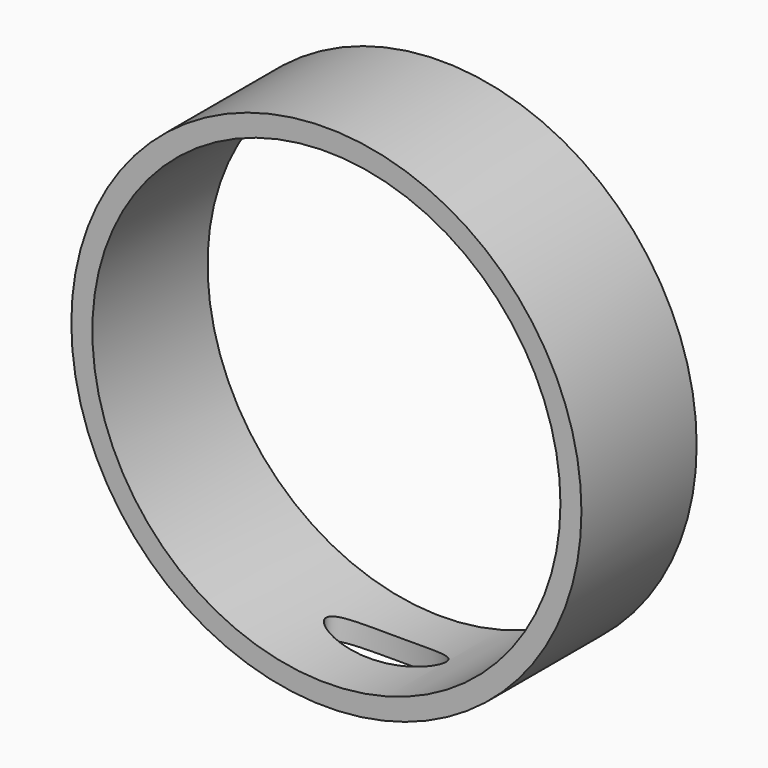
from build123d import *

# Parameters (mm, degrees)
F0_R     = 8.5
F0_R_2   = 7.8
F1_DEPTH = 4.8
F4_DEPTH = 2


with BuildPart() as f1:
    # F0 (on Front) → F1 (new body)
    with BuildSketch(Plane.XZ):
        Circle(F0_R)
        Circle(F0_R_2, mode=Mode.SUBTRACT)
    extrude(amount=F1_DEPTH)

    # F3 (on offset) → F4 (cut)
    with BuildSketch(Plane.XY.offset(-9)):
        with BuildLine():
            add(Edge.make_bspline(
                [(2, -2.31), (2, -1.097564), (-1, -1.703782), (-4, -2.31), (-1, -2.916218), (2, -3.522436), (2, -2.31)],
                knots=[0, 0, 0, 2.094395, 2.094395, 4.18879, 4.18879, 6.283185, 6.283185, 6.283185], degree=2, weights=[1, 0.5, 1, 0.5, 1, 0.5, 1]))
        make_face()
    extrude(amount=F4_DEPTH, mode=Mode.SUBTRACT)


solid = f1.part
